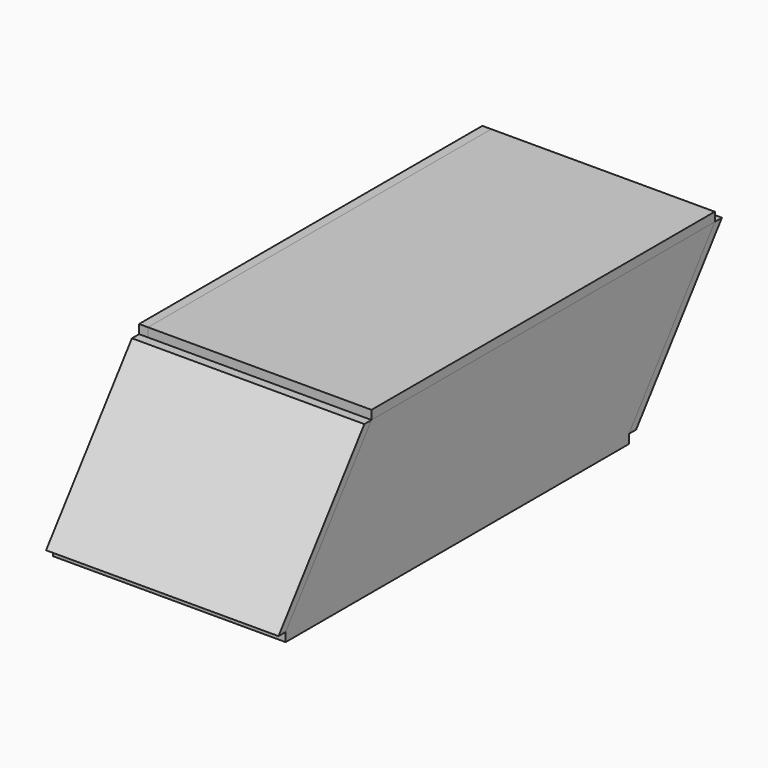
from build123d import *

# Parameters (mm, degrees)
F1_DEPTH  = 3.175
F2_W      = 3.175
F2_H      = 152.4
F2_W_2    = 79.375
F3_DEPTH  = 3.175
F4_W      = 82.55
F4_H      = 152.4
F5_DEPTH  = 3.175
F6_W      = 152.4
F6_H      = 3.175
F7_DEPTH  = 3.175
F9_DEPTH  = 82.55
F11_DEPTH = 82.55


with BuildPart() as f1:
    # F0 (on Right) → F1 (new body)
    with BuildSketch(Plane.YZ):
        Polygon((57.15, -25.4), (95.25, 25.4), (-57.15, 25.4), (-95.25, -25.4), align=None)
    extrude(amount=F1_DEPTH)

    # F4 (on face) → F5 (join)
    with BuildSketch(Plane(origin=(0, 0, -25.4), x_dir=(1, 0, 0), z_dir=(0, 0, -1))):
        with Locations((-38.1, 19.05)):
            Rectangle(F4_W, F4_H)
    extrude(amount=F5_DEPTH)


with BuildPart() as f3:
    # F2 (on face) → F3 (new body)
    with BuildSketch(Plane.XY.offset(25.4)):
        with Locations((1.5875, 19.05)):
            Rectangle(F2_W, F2_H)
        with Locations((-39.6875, 19.05)):
            Rectangle(F2_W_2, F2_H)
    extrude(amount=F3_DEPTH)


with BuildPart() as f7:
    # F6 (on face) → F7 (new body)
    with BuildSketch(Plane(origin=(-79.375, 0, 0), x_dir=(0, -1, 0), z_dir=(-1, 0, 0))):
        Polygon((57.15, 25.4), (-95.25, 25.4), (-57.15, -25.4), (95.25, -25.4), align=None)
        with Locations((-19.05, 26.9875)):
            Rectangle(F6_W, F6_H)
    extrude(amount=-F7_DEPTH)


with BuildPart() as f9:
    # F8 (on face) → F9 (new body)
    with BuildSketch(Plane(origin=(-79.375, 0, 0), x_dir=(0, -1, 0), z_dir=(-1, 0, 0))):
        Polygon((-98.425, 25.4), (-60.325, -25.4), (-57.15, -25.4), (-95.25, 25.4), align=None)
    extrude(amount=-F9_DEPTH)


with BuildPart() as f11:
    # F10 (on face) → F11 (new body)
    with BuildSketch(Plane(origin=(-79.375, 0, 0), x_dir=(0, -1, 0), z_dir=(-1, 0, 0))):
        Polygon((60.325, 25.4), (57.15, 25.4), (95.25, -25.4), (98.425, -25.4), align=None)
    extrude(amount=-F11_DEPTH)


solid = Compound([f1.part, f3.part, f7.part, f9.part, f11.part])
